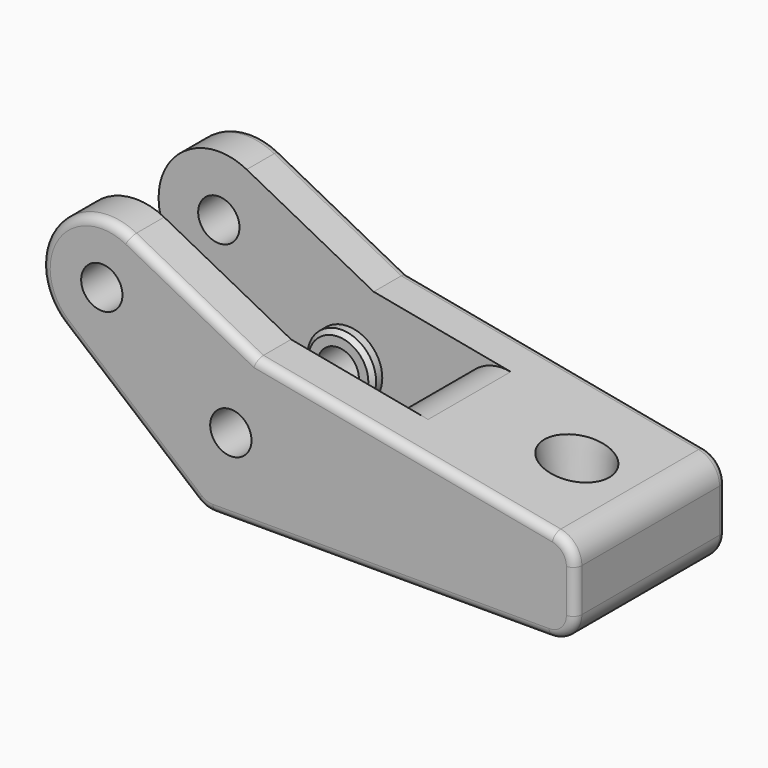
from build123d import *

# Parameters (mm, degrees)
CYLINDER007_R          = 4
CYLINDER007_DEPTH      = 5
CYLINDER007_ROLL_ANGLE = -90
CYLINDER008_R          = 4
CYLINDER008_DEPTH      = 5
CYLINDER008_ROLL_ANGLE = -90
CHAMFER001_SIZE        = 0.5
BOX014_W               = 36
BOX014_H               = 12
BOX014_DEPTH           = 31
SKETCH013_R            = 2.4
PAD011_DEPTH           = 22
FILLET017_R            = 3
FILLET018_R            = 5
FILLET019_R            = 1


with BuildPart() as cone:
    # Cone → Cone (revolve)
    with BuildSketch(Plane(origin=(53.5, 11, -1), x_dir=(1, 0, 0), z_dir=(0, -1, 0))):
        Polygon((0, 0), (2.2, 0), (4, 15), (0, 15), align=None)
    revolve(axis=Axis((53.5, 11, -1), (0, 0, 1)))


with BuildPart() as cylinder007:
    # Cylinder007 → Cylinder007 (new body)
    with BuildSketch(Plane.XY):
        Circle(CYLINDER007_R)
    extrude(amount=CYLINDER007_DEPTH)


with BuildPart() as cylinder007_1:
    # Cylinder007 roll: moved
    add(cylinder007.part.rotate(Axis((0, 0, 0), (1, 0, 0)), CYLINDER007_ROLL_ANGLE))


with BuildPart() as cylinder007_2:
    # Cylinder007 placement: moved
    add(cylinder007_1.part.moved(Location((22, 15.6, 9))))


with BuildPart() as chamfer001:
    # Cylinder008 → Cylinder008 (new body)
    with BuildSketch(Plane.XY):
        Circle(CYLINDER008_R)
    extrude(amount=CYLINDER008_DEPTH)


with BuildPart() as chamfer001_1:
    # Cylinder008 roll: moved
    add(chamfer001.part.rotate(Axis((0, 0, 0), (1, 0, 0)), CYLINDER008_ROLL_ANGLE))


with BuildPart() as chamfer001_2:
    # Cylinder008 placement: moved
    add(chamfer001_1.part.moved(Location((22, 1.4, 9))))

    # Fusion008: union Cylinder007
    add(cylinder007_2.part)

    # Chamfer001
    chamfer001_edges = [chamfer001_2.edges().sort_by_distance(p)[0] for p in [
        (18, 15.6, 9),
        (18, 6.4, 9),
    ]]
    chamfer(chamfer001_edges, length=CHAMFER001_SIZE)


with BuildPart() as cut022:
    # Box014 → Box014 (new body)
    with BuildSketch(Plane(origin=(-1, 5, -2), x_dir=(1, 0, 0), z_dir=(0, 0, 1))):
        with Locations((18, 6)):
            Rectangle(BOX014_W, BOX014_H)
    extrude(amount=BOX014_DEPTH)

    # Cut022: cut Chamfer001
    add(chamfer001_2.part, mode=Mode.SUBTRACT)


with BuildPart() as cut024:
    # Sketch013 → Pad011 (new body)
    with BuildSketch(Plane.XZ):
        with BuildLine():
            ThreePointArc((10.239335, 25.205378), (1.177797, 22.886123), (2.51191, 13.628125))
            Line((18.823529, 0), (2.51191, 13.628125))
            Line((62, 0), (18.823529, 0))
            Line((62, 10.5), (62, 0))
            Line((25, 17.5), (62, 10.5))
            Line((10.239335, 25.205378), (25, 17.5))
        make_face()
        with Locations((7, 19)):
            Circle(SKETCH013_R, mode=Mode.SUBTRACT)
        with Locations((22, 9)):
            Circle(SKETCH013_R, mode=Mode.SUBTRACT)
    extrude(amount=-PAD011_DEPTH)

    # Cut023: cut Cut022
    add(cut022.part, mode=Mode.SUBTRACT)

    # Fillet017
    fillet017_edges = [cut024.edges().sort_by_distance(p)[0] for p in [
        (18.823529, 2.5, 0),
        (18.823529, 19.5, 0),
        (62, 11, 0),
        (62, 11, 10.5),
    ]]
    fillet(fillet017_edges, radius=FILLET017_R)

    # Fillet018
    fillet018_edges = [cut024.edges().sort_by_distance(p)[0] for p in [
        (35, 11, 0),
        (35, 11, 15.608108),
    ]]
    fillet(fillet018_edges, radius=FILLET018_R)

    # Fillet019
    fillet019_edges = [cut024.edges().sort_by_distance(p)[0] for p in [
        (1.177797, 0, 22.886123),
        (1.177797, 22, 22.886123),
    ]]
    fillet(fillet019_edges, radius=FILLET019_R)

    # Cut024: cut Cone
    add(cone.part, mode=Mode.SUBTRACT)


solid = cut024.part
